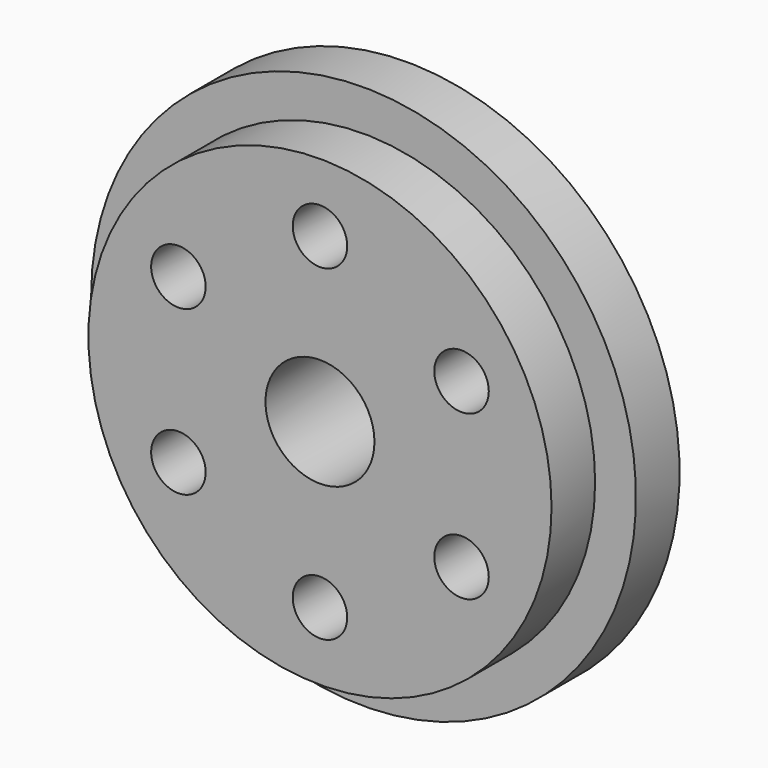
from build123d import *

# Parameters (mm, degrees)
F0_R     = 8.5
F0_R_2   = 1
F1_DEPTH = 2
F2_R     = 10
F3_DEPTH = 2
F4_R     = 2
F5_DEPTH = 4.001


with BuildPart() as f1:
    # F0 (on Front) → F1 (new body)
    with BuildSketch(Plane.XZ):
        Circle(F0_R)
        with Locations((-5.196152, -3)):
            Circle(F0_R_2, mode=Mode.SUBTRACT)
        with Locations((0, -6)):
            Circle(F0_R_2, mode=Mode.SUBTRACT)
        with Locations((5.196152, -3)):
            Circle(F0_R_2, mode=Mode.SUBTRACT)
        with Locations((-5.196152, 3)):
            Circle(F0_R_2, mode=Mode.SUBTRACT)
        with Locations((5.196152, 3)):
            Circle(F0_R_2, mode=Mode.SUBTRACT)
        with Locations((0, 6)):
            Circle(F0_R_2, mode=Mode.SUBTRACT)
    extrude(amount=F1_DEPTH)

    # F2 (on face) → F3 (join)
    with BuildSketch(Plane(origin=(0, 0, 0), x_dir=(-1, 0, 0), z_dir=(0, 1, 0))):
        Circle(F2_R)
    extrude(amount=F3_DEPTH)

    # F4 (on face) → F5 (cut, through all)
    with BuildSketch(Plane.XZ.offset(2)):
        Circle(F4_R)
    extrude(amount=-F5_DEPTH, mode=Mode.SUBTRACT)


solid = f1.part
